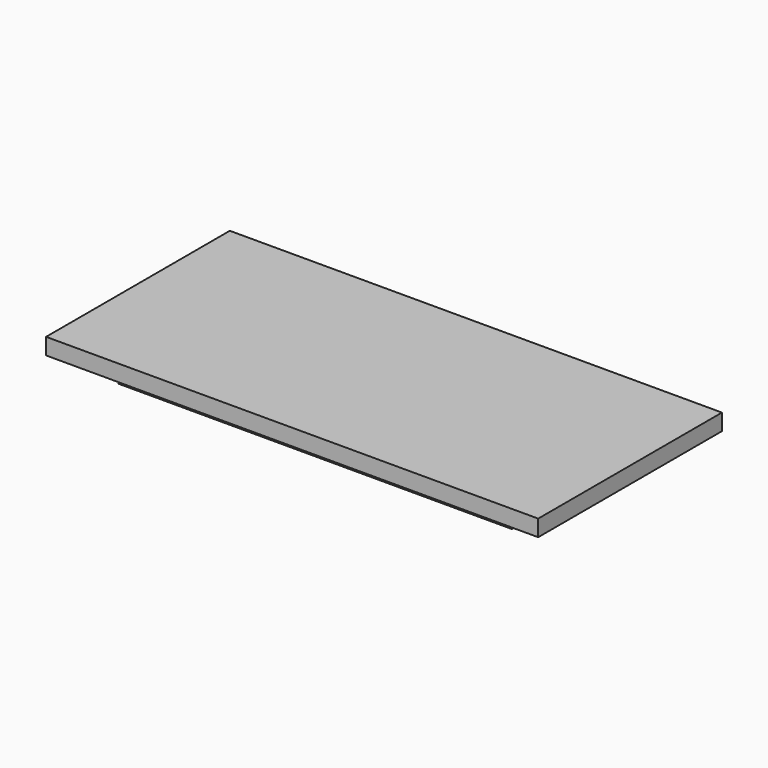
from build123d import *

# Parameters (mm, degrees)
F0_W     = 3048
F0_H     = 1422.4
F1_DEPTH = 101.6
F2_W     = 2438.4
F2_H     = 1066.8
F2_W_2   = 2336.8
F2_H_2   = 965.2
F3_DEPTH = 127


with BuildPart() as f1:
    # F0 (on Top) → F1 (new body)
    with BuildSketch(Plane.XY):
        Rectangle(F0_W, F0_H)
    extrude(amount=F1_DEPTH)

    # F2 (on face) → F3 (join)
    with BuildSketch(Plane(origin=(0, 0, 0), x_dir=(1, 0, 0), z_dir=(0, 0, -1))):
        Rectangle(F2_W, F2_H)
        Rectangle(F2_W_2, F2_H_2, mode=Mode.SUBTRACT)
    extrude(amount=F3_DEPTH)


solid = f1.part
